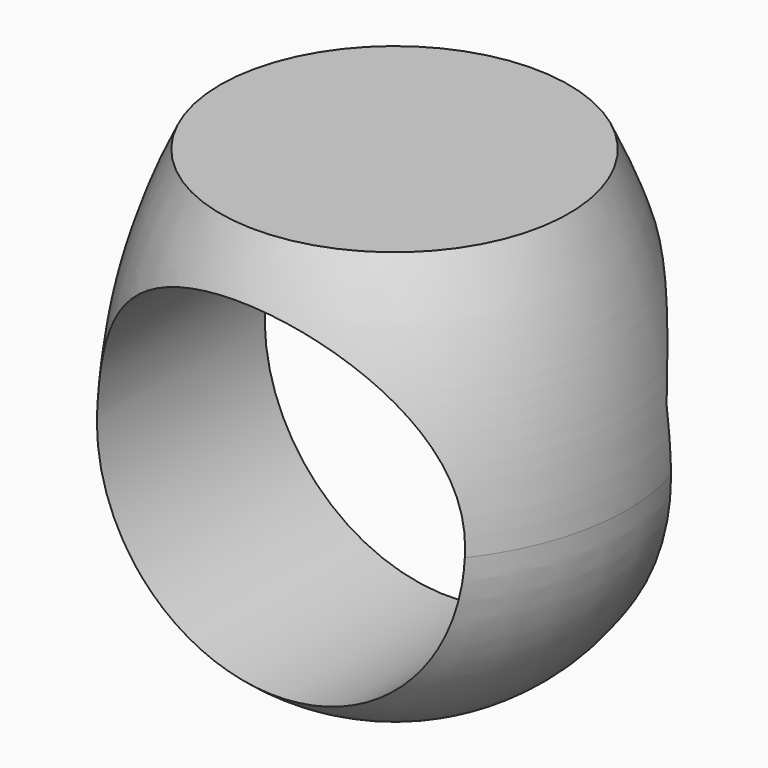
from build123d import *

# Parameters (mm, degrees)
F2_R     = 9.5
F3_DEPTH = 12.7
F5_DEPTH = 12.7


with BuildPart() as f1:
    # F0 (on Front) → F1 (revolve)
    with BuildSketch(Plane.XZ):
        with BuildLine():
            ThreePointArc((-12, -12.5), (-8.485281, -20.985281), (0, -24.5))
            Line((0, -24.5), (0, -12.5))
            Line((0, -12.5), (-12, -12.5))
        make_face()
        with BuildLine():
            Line((-12, -12.5), (0, -12.5))
            Line((0, -12.5), (0, 0))
            Line((0, 0), (-9, 0))
            ThreePointArc((-9, 0), (-11.177394, -6.087425), (-12, -12.5))
        make_face()
    revolve(axis=Axis((0, 0, -12.25), (0, 0, 1)))

    # F2 (on Front) → F3 (cut, symmetric)
    with BuildSketch(Plane.XZ):
        with Locations((0, -12.25)):
            Circle(F2_R)
    extrude(amount=F3_DEPTH, both=True, mode=Mode.SUBTRACT)

    # F4 (on Right) → F5 (cut, symmetric)
    with BuildSketch(Plane.YZ):
        with BuildLine():
            Line((3.5, -9.386586), (3.5, -26.5))
            Line((3.5, -26.5), (11.744158, -26.5))
            Line((11.744158, -26.5), (11.744158, -12.5))
            Line((11.744158, -12.5), (11.744158, -2.5))
            Line((11.744158, -2.5), (11.744158, -2.137654))
            Line((11.744158, -2.137654), (10.246388, -2.5))
            ThreePointArc((10.246388, -2.5), (6.039403, -5.126477), (3.5, -9.386586))
        make_face()
    extrude(amount=F5_DEPTH, both=True, mode=Mode.SUBTRACT)


solid = f1.part
